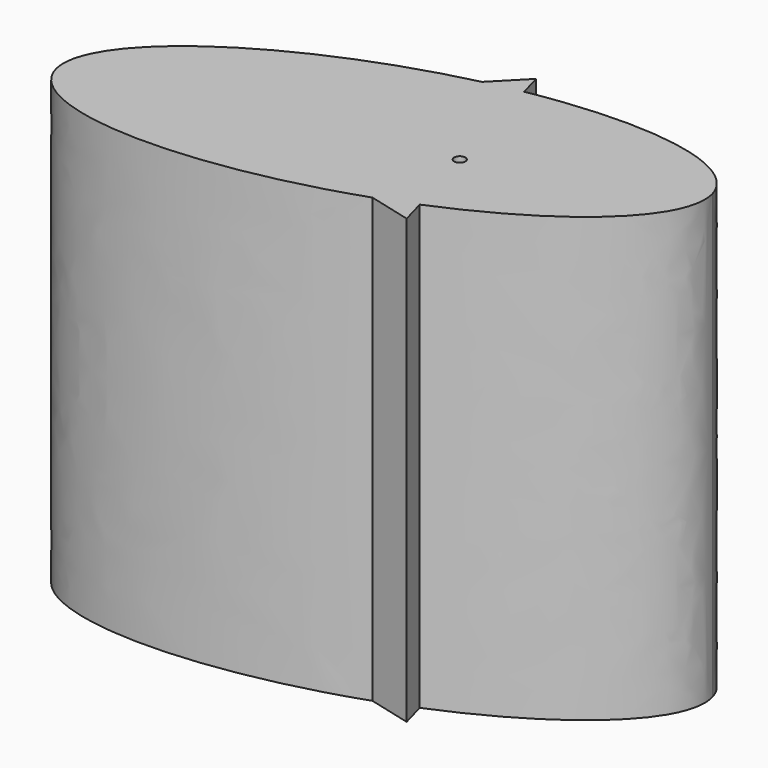
from build123d import *

# Parameters (mm, degrees)
F1_DEPTH = 254
F8_D     = 6.35


with BuildPart() as f1:
    # F0 (on Top) → F1 (new body)
    with BuildSketch(Plane.XY):
        with BuildLine():
            add(Edge.make_bspline(
                [(56.7267649586, -45.3442428128), (165.7697287487, -0.1871238141), (152.3593788969, 45.10822266)],
                knots=[4.9767626348, 4.9767626348, 4.9767626348, 6.2831853072, 6.2831853072, 6.2831853072], degree=2, weights=[1, 0.79413624, 1]))
            add(Edge.make_bspline(
                [(152.3593788969, 45.10822266), (139.1332845807, 89.7812200962), (24.9170021831, 69.2863295536)],
                knots=[0, 0, 0, 1.2930927927, 1.2930927927, 1.2930927927], degree=2, weights=[1, 0.7981691208, 1]))
            Line((24.9170021831, 69.2863295535), (56.7267649586, -45.3442428128))
        make_face()
        with BuildLine():
            Line((56.7267649586, -45.3442428128), (24.9170021831, 69.2863295535))
            add(Edge.make_bspline(
                [(24.9170021831, 69.2863295536), (14.6254096305, 67.4396133197), (4.1991469211, 64.9719159626)],
                knots=[1.2930927927, 1.2930927927, 1.2930927927, 1.4289023934, 1.4289023934, 1.4289023934], degree=2, weights=[1, 0.9976953548, 1]))
            Line((4.1991469211, 64.9719159626), (-81.9751396775, -22.7479431778))
            Line((-81.9751396775, -22.7479431778), (35.995592068, -53.2369700128))
            add(Edge.make_bspline(
                [(35.995592068, -53.2369700128), (46.5955617331, -49.5397996259), (56.7267649586, -45.3442428128)],
                knots=[4.834796177, 4.834796177, 4.834796177, 4.9767626348, 4.9767626348, 4.9767626348], degree=2, weights=[1, 0.9974817482, 1]))
        make_face()
        with BuildLine():
            add(Edge.make_bspline(
                [(24.9170021831, 69.2863295536), (14.6254096305, 67.4396133197), (4.1991469211, 64.9719159626)],
                knots=[1.2930927927, 1.2930927927, 1.2930927927, 1.4289023934, 1.4289023934, 1.4289023934], degree=2, weights=[1, 0.9976953548, 1]))
            Line((24.9170021831, 69.2863295535), (21.2872731629, 82.3665250284))
            Line((21.2872731629, 82.3665250284), (4.1991469211, 64.9719159626))
        make_face()
        with BuildLine():
            Line((60.6878665146, -59.6185818506), (56.7267649586, -45.3442428128))
            add(Edge.make_bspline(
                [(35.995592068, -53.2369700128), (46.5955617331, -49.5397996259), (56.7267649586, -45.3442428128)],
                knots=[4.834796177, 4.834796177, 4.834796177, 4.9767626348, 4.9767626348, 4.9767626348], degree=2, weights=[1, 0.9974817482, 1]))
            Line((35.995592068, -53.2369700128), (60.6878665146, -59.6185818506))
        make_face()
        with BuildLine():
            Line((-81.9751396775, -22.7479431778), (4.1991469211, 64.9719159626))
            add(Edge.make_bspline(
                [(4.1991469211, 64.9719159626), (-170.8338745759, 23.5449409679), (-152.5228808522, -44.5294037957), (-134.2118871284, -112.6037485592), (35.995592068, -53.2369700128)],
                knots=[1.4289023934, 1.4289023934, 1.4289023934, 3.1318492852, 3.1318492852, 4.834796177, 4.834796177, 4.834796177], degree=2, weights=[1, 0.6588754588, 1, 0.6588754588, 1]))
            Line((35.995592068, -53.2369700128), (-81.9751396775, -22.7479431778))
        make_face()
    extrude(amount=F1_DEPTH)

    # F8 (through all)
    with Locations(Plane.XY.offset(254)):
        with Locations((43.4321761131, 0)):
            Hole(F8_D / 2)


solid = f1.part
